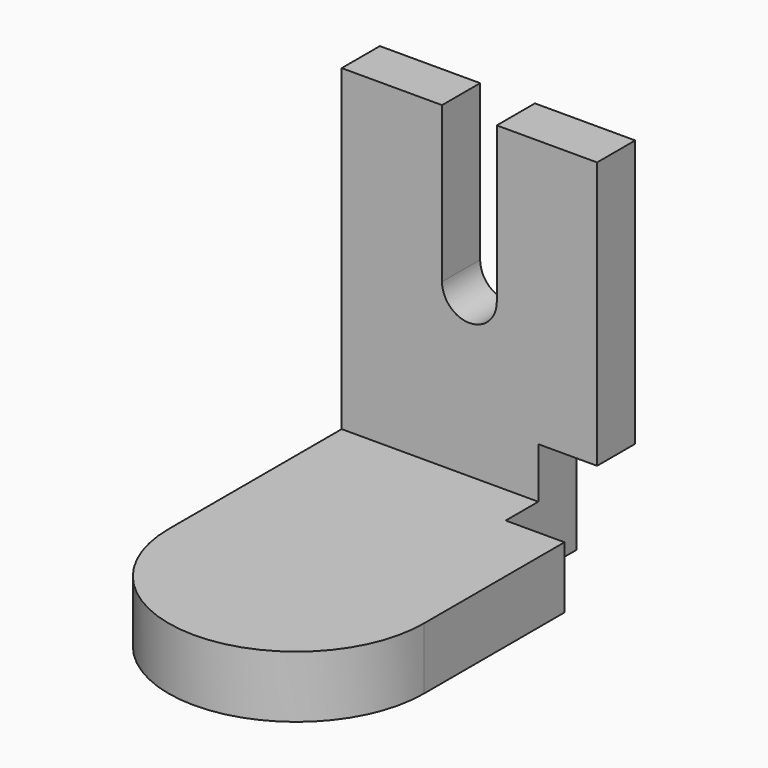
from build123d import *

# Parameters (mm, degrees)
F0_W      = 52.4510033429
F0_H      = 54.2289987206
F2_DEPTH  = 25.4
F3_W      = 52.4510033429
F3_H      = 9.7890347242
F4_DEPTH  = 65.024
F5_W      = 12.0777860284
F5_H      = 18.1565545499
F6_DEPTH  = 50.8
F7_DEPTH  = 12.7
F8_DEPTH  = 12.446
F9_DEPTH  = 27.686
F10_W     = 11.244142428
F10_H     = 31.9378077536
F10_H_2   = 5.1374584885
F11_DEPTH = 65.278


with BuildPart() as f2:
    # F0 (on Top) → F2 (new body)
    with BuildSketch(Plane.XY):
        with BuildLine():
            ThreePointArc((-26.2255016714, -27.1144993603), (0, -53.3400010318), (26.2255016714, -27.1144993603))
            Line((26.2255016714, -27.1144993603), (-26.2255016714, -27.1144993603))
        make_face()
        Rectangle(F0_W, F0_H)
    extrude(amount=F2_DEPTH)

    # F3 (on face) → F4 (join)
    with BuildSketch(Plane.XY.offset(25.4)):
        with Locations((0, 22.2199819982)):
            Rectangle(F3_W, F3_H)
    extrude(amount=F4_DEPTH)

    # F5 (on face) → F6 (cut)
    with BuildSketch(Plane.XY):
        with Locations((20.1866086572, 18.0362220854)):
            Rectangle(F5_W, F5_H)
    extrude(amount=F6_DEPTH, mode=Mode.SUBTRACT)

    # F7 (cut): a face of the model
    f7_faces = [f2.faces().sort_by_distance(p)[0] for p in [
        (-0.6162983013, -16.3297638345, 25.4),
    ]]
    extrude(f7_faces, amount=-F7_DEPTH, mode=Mode.SUBTRACT)

    # F8 (cut): a face of the model
    f8_faces = [f2.faces().sort_by_distance(p)[0] for p in [
        (0, 22.2199819982, 90.424),
    ]]
    extrude(f8_faces, amount=-F8_DEPTH, mode=Mode.SUBTRACT)

    # F9 (add): a face of the model
    f9_faces = [f2.faces().sort_by_distance(p)[0] for p in [
        (20.1866086572, 22.2199819982, 50.8),
    ]]
    extrude(f9_faces, amount=F9_DEPTH)

    # F10 (on face) → F11 (cut)
    with BuildSketch(Plane.XZ.offset(-17.3254646361)):
        with Locations((0, 62.0090961232)):
            Rectangle(F10_W, F10_H)
        with BuildLine():
            ThreePointArc((-5.622071214, 46.0401922464), (0, 40.4181210324), (5.622071214, 46.0401922464))
            Line((5.622071214, 46.0401922464), (-5.622071214, 46.0401922464))
        make_face()
        with Locations((0, 80.5467292442)):
            Rectangle(F10_W, F10_H_2)
    extrude(amount=-F11_DEPTH, mode=Mode.SUBTRACT)


solid = f2.part
